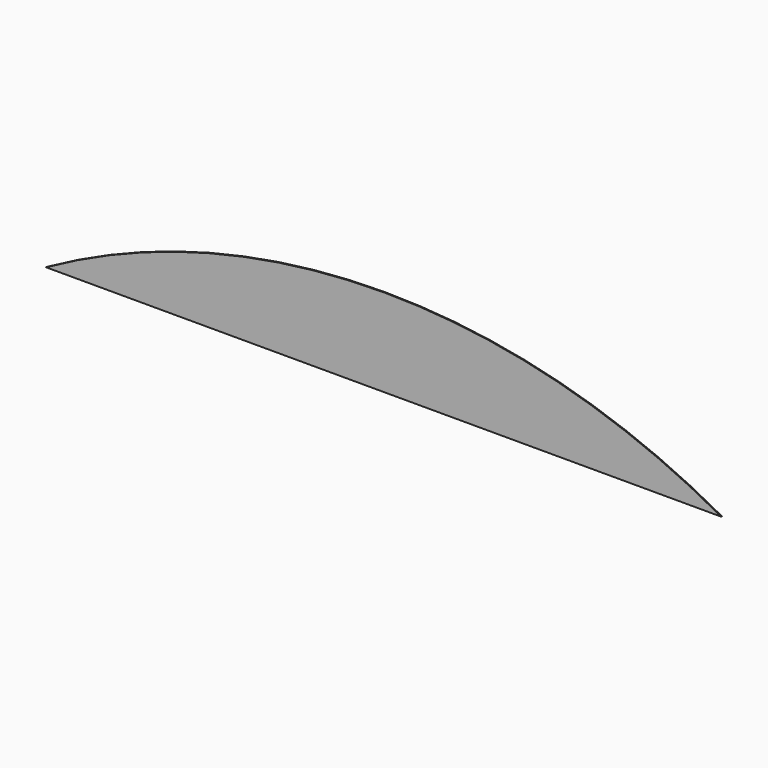
from build123d import *

# Parameters (mm, degrees)
F1_DEPTH = 25.4


with BuildPart() as f1:
    # F0 (on Front) → F1 (new body)
    with BuildSketch(Plane.XZ):
        with BuildLine():
            Line((-9144, 0), (0, 0))
            Line((0, 0), (9144, 0))
            ThreePointArc((9144, 0), (0, 2377.44), (-9144, 0))
        make_face()
    extrude(amount=F1_DEPTH)


solid = f1.part
